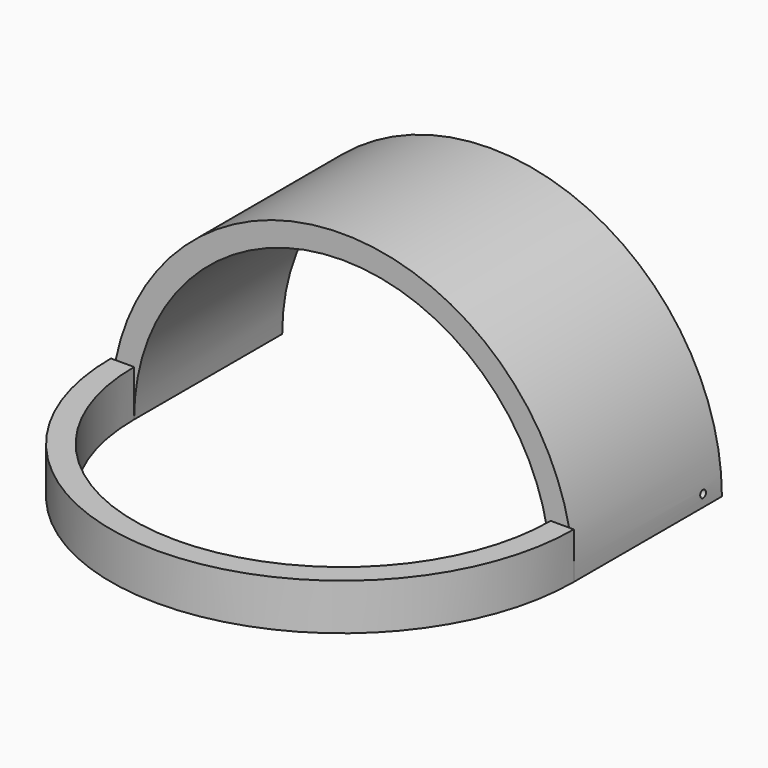
from build123d import *

# Parameters (mm, degrees)
F1_DEPTH = 101.6
F3_R     = 1.984375
F4_DEPTH = 25.4
F6_R     = 1.984375
F7_DEPTH = 31.75
F8_DEPTH = 25.4
F9_DEPTH = 12.7


with BuildPart() as f1:
    # F0 (on Front) → F1 (new body)
    with BuildSketch(Plane.XZ):
        with BuildLine():
            Line((114.3, 0), (127, 0))
            ThreePointArc((127, 0), (0, 127), (-127, 0))
            Line((-127, 0), (-114.3, 0))
            ThreePointArc((-114.3, 0), (0, 114.3), (114.3, 0))
        make_face()
    extrude(amount=F1_DEPTH)

    # F3 (on face) → F4 (cut)
    with BuildSketch(Plane(origin=(0, 0, 0), x_dir=(1, 0, 0), z_dir=(0, 0, -1))):
        with Locations((0, 222.573593)):
            Circle(F3_R)
    extrude(amount=-F4_DEPTH, mode=Mode.SUBTRACT)

    # F6 (on offset) → F7 (cut)
    with BuildSketch(Plane.YZ.offset(152.4)):
        with Locations((-12.7, 6.35)):
            Circle(F6_R)
    extrude(amount=-F7_DEPTH, mode=Mode.SUBTRACT)

    # F2 (on face) → F8 (join)
    with BuildSketch(Plane(origin=(0, 0, 0), x_dir=(1, 0, 0), z_dir=(0, 0, -1))):
        with BuildLine():
            ThreePointArc((-114.3, 101.6), (0, 215.9), (114.3, 101.6))
            Line((114.3, 101.6), (127, 101.6))
            ThreePointArc((127, 101.6), (0, 228.6), (-127, 101.6))
            Line((-127, 101.6), (-114.3, 101.6))
        make_face()
    extrude(amount=-F8_DEPTH)

    # F3 (on face) → F9 (cut)
    with BuildSketch(Plane(origin=(0, 0, 0), x_dir=(1, 0, 0), z_dir=(0, 0, -1))):
        with Locations((0, 222.573593)):
            Circle(F3_R)
    extrude(amount=-F9_DEPTH, mode=Mode.SUBTRACT)


solid = f1.part
